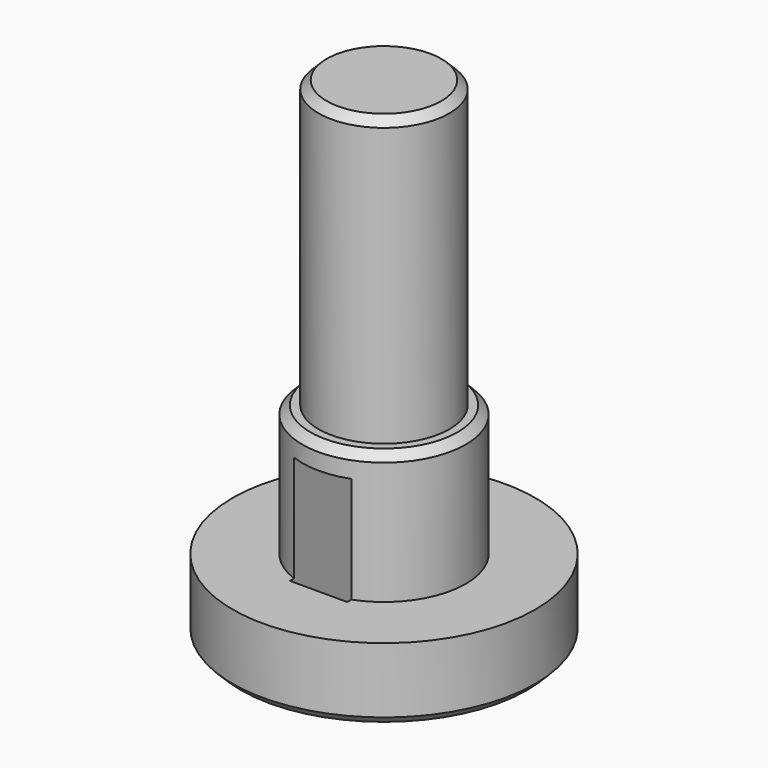
from build123d import *

# Parameters (mm, degrees)
SKETCH_R        = 9.25
PAD_DEPTH       = 4.5
SKETCH001_R     = 5
PAD001_DEPTH    = 8
SKETCH002_R     = 4
PAD002_DEPTH    = 17.5
SKETCH003_W     = 3.5
SKETCH003_H     = 10
POCKET_DEPTH    = 11
CHAMFER_SIZE    = 0.5
CHAMFER001_SIZE = 1


with BuildPart() as part:
    # Sketch → Pad (new body)
    with BuildSketch(Plane.XY):
        Circle(SKETCH_R)
    extrude(amount=PAD_DEPTH)

    # Sketch001 (on Face3 of Pad) → Pad001 (join)
    with BuildSketch(Plane.XY.offset(4.5)):
        Circle(SKETCH001_R)
    extrude(amount=PAD001_DEPTH)

    # Sketch002 (on Face5 of Pad001) → Pad002 (join)
    with BuildSketch(Plane.XY.offset(12.5)):
        Circle(SKETCH002_R)
    extrude(amount=PAD002_DEPTH)

    # Sketch003 (on Face2 of Pad002) → Pocket (cut)
    with BuildSketch(Plane(origin=(0, 0, 0), x_dir=(1, 0, 0), z_dir=(0, 0, -1))):
        Rectangle(SKETCH003_W, SKETCH003_H)
    extrude(amount=-POCKET_DEPTH, mode=Mode.SUBTRACT)

    # Chamfer
    chamfer_edges = [part.edges().sort_by_distance(p)[0] for p in [
        (-4, 0, 30),
        (-5, 0, 12.5),
        (-9.25, 0, 0),
    ]]
    chamfer(chamfer_edges, length=CHAMFER_SIZE)

    # Chamfer001
    chamfer001_edges = [part.edges().sort_by_distance(p)[0] for p in [
        (0, -5, 0),
        (1.75, 0, 0),
        (0, 5, 0),
        (-1.75, 0, 0),
    ]]
    chamfer(chamfer001_edges, length=CHAMFER001_SIZE)


solid = part.part
